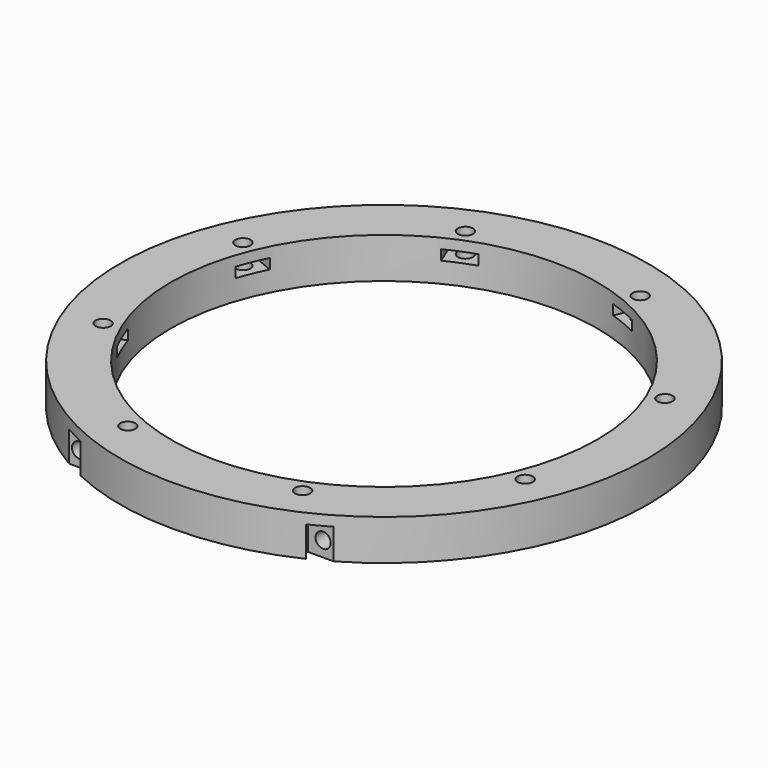
from build123d import *

# Parameters (mm, degrees)
CYLINDER904_R               = 1.5
CYLINDER904_DEPTH           = 20
CYLINDER904_PLACEMENT_ANGLE = 45
CYLINDER907_R               = 1.5
CYLINDER907_DEPTH           = 20
CYLINDER902_R               = 1.5
CYLINDER902_DEPTH           = 20
CYLINDER902_PLACEMENT_ANGLE = 135
CYLINDER901_R               = 1.5
CYLINDER901_DEPTH           = 20
CYLINDER903_R               = 1.5
CYLINDER903_DEPTH           = 20
CYLINDER903_PLACEMENT_ANGLE = 225
CYLINDER905_R               = 1.5
CYLINDER905_DEPTH           = 20
CYLINDER906_R               = 1.5
CYLINDER906_DEPTH           = 20
CYLINDER906_PLACEMENT_ANGLE = 45
CYLINDER898_R               = 1.5
CYLINDER898_DEPTH           = 20
COMPOUND256_PLACEMENT_ANGLE = 22.5
BOX408_W                    = 6
BOX408_H                    = 8
BOX408_DEPTH                = 2
BOX408_PLACEMENT_ANGLE      = 45
BOX404_W                    = 6
BOX404_H                    = 8
BOX404_DEPTH                = 2
BOX415_W                    = 6
BOX415_H                    = 8
BOX415_DEPTH                = 2
BOX415_PLACEMENT_ANGLE      = 135
BOX407_W                    = 6
BOX407_H                    = 8
BOX407_DEPTH                = 2
BOX412_W                    = 6
BOX412_H                    = 8
BOX412_DEPTH                = 2
BOX412_PLACEMENT_ANGLE      = 225
BOX128_W                    = 6
BOX128_H                    = 8
BOX128_DEPTH                = 2
BOX414_W                    = 6
BOX414_H                    = 8
BOX414_DEPTH                = 2
BOX414_PLACEMENT_ANGLE      = 45
BOX413_W                    = 6
BOX413_H                    = 8
BOX413_DEPTH                = 2
COMPOUND780_PLACEMENT_ANGLE = 22.5
CYLINDER888_R               = 1.5
CYLINDER888_DEPTH           = 20
CYLINDER897_R               = 1.5
CYLINDER897_DEPTH           = 20
CYLINDER896_R               = 1.5
CYLINDER896_DEPTH           = 20
CYLINDER900_R               = 1.5
CYLINDER900_DEPTH           = 20
BOX409_W                    = 6
BOX409_H                    = 2
BOX409_DEPTH                = 6
BOX406_W                    = 6
BOX406_H                    = 2
BOX406_DEPTH                = 6
BOX411_W                    = 6
BOX411_H                    = 2
BOX411_DEPTH                = 6
BOX410_W                    = 6
BOX410_H                    = 2
BOX410_DEPTH                = 6
TUBE087_R                   = 52
TUBE087_R_2                 = 42
TUBE087_DEPTH               = 8


with BuildPart() as obj1:
    # Cylinder904 → Cylinder904 (new body)
    with BuildSketch(Plane.XY):
        Circle(CYLINDER904_R)
    extrude(amount=CYLINDER904_DEPTH)


with BuildPart() as obj1_1:
    # Cylinder904 placement: moved
    add(obj1.part.moved(Location((-31.819805, 31.819805, -18))).rotate(Axis((-31.819805, 31.819805, -18), (0, 0, 1)), CYLINDER904_PLACEMENT_ANGLE))


with BuildPart() as obj2:
    # Cylinder907 → Cylinder907 (new body)
    with BuildSketch(Plane(origin=(-45, 0, -18), x_dir=(0, 1, 0), z_dir=(0, 0, 1))):
        Circle(CYLINDER907_R)
    extrude(amount=CYLINDER907_DEPTH)


with BuildPart() as obj3:
    # Cylinder902 → Cylinder902 (new body)
    with BuildSketch(Plane.XY):
        Circle(CYLINDER902_R)
    extrude(amount=CYLINDER902_DEPTH)


with BuildPart() as obj3_1:
    # Cylinder902 placement: moved
    add(obj3.part.moved(Location((-31.819805, -31.819805, -18))).rotate(Axis((-31.819805, -31.819805, -18), (0, 0, 1)), CYLINDER902_PLACEMENT_ANGLE))


with BuildPart() as obj4:
    # Cylinder901 → Cylinder901 (new body)
    with BuildSketch(Plane(origin=(0, -45, -18), x_dir=(-1, 0, 0), z_dir=(0, 0, 1))):
        Circle(CYLINDER901_R)
    extrude(amount=CYLINDER901_DEPTH)


with BuildPart() as obj5:
    # Cylinder903 → Cylinder903 (new body)
    with BuildSketch(Plane.XY):
        Circle(CYLINDER903_R)
    extrude(amount=CYLINDER903_DEPTH)


with BuildPart() as obj5_1:
    # Cylinder903 placement: moved
    add(obj5.part.moved(Location((31.819805, -31.819805, -18))).rotate(Axis((31.819805, -31.819805, -18), (0, 0, 1)), CYLINDER903_PLACEMENT_ANGLE))


with BuildPart() as obj6:
    # Cylinder905 → Cylinder905 (new body)
    with BuildSketch(Plane(origin=(45, 0, -18), x_dir=(0, -1, 0), z_dir=(0, 0, 1))):
        Circle(CYLINDER905_R)
    extrude(amount=CYLINDER905_DEPTH)


with BuildPart() as obj7:
    # Cylinder906 → Cylinder906 (new body)
    with BuildSketch(Plane.XY):
        Circle(CYLINDER906_R)
    extrude(amount=CYLINDER906_DEPTH)


with BuildPart() as obj7_1:
    # Cylinder906 placement: moved
    add(obj7.part.moved(Location((31.819805, 31.819805, -18))).rotate(Axis((31.819805, 31.819805, -18), (0, 0, -1)), CYLINDER906_PLACEMENT_ANGLE))


with BuildPart() as compound256:
    # Cylinder898 → Cylinder898 (new body)
    with BuildSketch(Plane(origin=(0, 45, -18), x_dir=(1, 0, 0), z_dir=(0, 0, 1))):
        Circle(CYLINDER898_R)
    extrude(amount=CYLINDER898_DEPTH)

    # Compound256: union obj1, obj2, obj3, obj4, obj5, obj6, obj7
    add(obj1_1.part)
    add(obj2.part)
    add(obj3_1.part)
    add(obj4.part)
    add(obj5_1.part)
    add(obj6.part)
    add(obj7_1.part)


with BuildPart() as compound256_1:
    # Compound256 placement: moved
    add(compound256.part.rotate(Axis((0, 0, 0), (0, 0, 1)), COMPOUND256_PLACEMENT_ANGLE))


with BuildPart() as krychle408:
    # Box408 → Box408 (new body)
    with BuildSketch(Plane.XY):
        with Locations((3, 4)):
            Rectangle(BOX408_W, BOX408_H)
    extrude(amount=BOX408_DEPTH)


with BuildPart() as krychle408_1:
    # Box408 placement: moved
    add(krychle408.part.moved(Location((-31.112698, 26.870058, -4))).rotate(Axis((-31.112698, 26.870058, -4), (0, 0, 1)), BOX408_PLACEMENT_ANGLE))


with BuildPart() as krychle404:
    # Box404 → Box404 (new body)
    with BuildSketch(Plane(origin=(-41, -3, -4), x_dir=(0, 1, 0), z_dir=(0, 0, 1))):
        with Locations((3, 4)):
            Rectangle(BOX404_W, BOX404_H)
    extrude(amount=BOX404_DEPTH)


with BuildPart() as krychle415:
    # Box415 → Box415 (new body)
    with BuildSketch(Plane.XY):
        with Locations((3, 4)):
            Rectangle(BOX415_W, BOX415_H)
    extrude(amount=BOX415_DEPTH)


with BuildPart() as krychle415_1:
    # Box415 placement: moved
    add(krychle415.part.moved(Location((-26.870058, -31.112698, -4))).rotate(Axis((-26.870058, -31.112698, -4), (0, 0, 1)), BOX415_PLACEMENT_ANGLE))


with BuildPart() as krychle407:
    # Box407 → Box407 (new body)
    with BuildSketch(Plane(origin=(3, -41, -4), x_dir=(-1, 0, 0), z_dir=(0, 0, 1))):
        with Locations((3, 4)):
            Rectangle(BOX407_W, BOX407_H)
    extrude(amount=BOX407_DEPTH)


with BuildPart() as krychle412:
    # Box412 → Box412 (new body)
    with BuildSketch(Plane.XY):
        with Locations((3, 4)):
            Rectangle(BOX412_W, BOX412_H)
    extrude(amount=BOX412_DEPTH)


with BuildPart() as krychle412_1:
    # Box412 placement: moved
    add(krychle412.part.moved(Location((31.112698, -26.870058, -4))).rotate(Axis((31.112698, -26.870058, -4), (0, 0, 1)), BOX412_PLACEMENT_ANGLE))


with BuildPart() as krychle128:
    # Box128 → Box128 (new body)
    with BuildSketch(Plane(origin=(41, 3, -4), x_dir=(0, -1, 0), z_dir=(0, 0, 1))):
        with Locations((3, 4)):
            Rectangle(BOX128_W, BOX128_H)
    extrude(amount=BOX128_DEPTH)


with BuildPart() as krychle414:
    # Box414 → Box414 (new body)
    with BuildSketch(Plane.XY):
        with Locations((3, 4)):
            Rectangle(BOX414_W, BOX414_H)
    extrude(amount=BOX414_DEPTH)


with BuildPart() as krychle414_1:
    # Box414 placement: moved
    add(krychle414.part.moved(Location((26.870058, 31.112698, -4))).rotate(Axis((26.870058, 31.112698, -4), (0, 0, -1)), BOX414_PLACEMENT_ANGLE))


with BuildPart() as compound780:
    # Box413 → Box413 (new body)
    with BuildSketch(Plane(origin=(-3, 41, -4), x_dir=(1, 0, 0), z_dir=(0, 0, 1))):
        with Locations((3, 4)):
            Rectangle(BOX413_W, BOX413_H)
    extrude(amount=BOX413_DEPTH)

    # Compound780: union Krychle408, Krychle404, Krychle415, Krychle407, Krychle412, Krychle128, Krychle414
    add(krychle408_1.part)
    add(krychle404.part)
    add(krychle415_1.part)
    add(krychle407.part)
    add(krychle412_1.part)
    add(krychle128.part)
    add(krychle414_1.part)


with BuildPart() as compound780_1:
    # Compound780 placement: moved
    add(compound780.part.rotate(Axis((0, 0, 0), (0, 0, 1)), COMPOUND780_PLACEMENT_ANGLE))


with BuildPart() as obj8:
    # Cylinder888 → Cylinder888 (new body)
    with BuildSketch(Plane(origin=(24, -40, -5), x_dir=(1, 0, 0), z_dir=(0, -1, 0))):
        Circle(CYLINDER888_R)
    extrude(amount=CYLINDER888_DEPTH)


with BuildPart() as obj9:
    # Cylinder897 → Cylinder897 (new body)
    with BuildSketch(Plane(origin=(51, -40, 7), x_dir=(1, 0, 0), z_dir=(0, -1, 0))):
        Circle(CYLINDER897_R)
    extrude(amount=CYLINDER897_DEPTH)


with BuildPart() as obj10:
    # Cylinder896 → Cylinder896 (new body)
    with BuildSketch(Plane(origin=(-51, -40, 7), x_dir=(1, 0, 0), z_dir=(0, -1, 0))):
        Circle(CYLINDER896_R)
    extrude(amount=CYLINDER896_DEPTH)


with BuildPart() as compound255:
    # Cylinder900 → Cylinder900 (new body)
    with BuildSketch(Plane(origin=(-24, -40, -5), x_dir=(1, 0, 0), z_dir=(0, -1, 0))):
        Circle(CYLINDER900_R)
    extrude(amount=CYLINDER900_DEPTH)

    # Compound255: union obj8, obj9, obj10
    add(obj8.part)
    add(obj9.part)
    add(obj10.part)


with BuildPart() as krychle409:
    # Box409 → Box409 (new body)
    with BuildSketch(Plane(origin=(21, -47, -8), x_dir=(1, 0, 0), z_dir=(0, 0, 1))):
        with Locations((3, 1)):
            Rectangle(BOX409_W, BOX409_H)
    extrude(amount=BOX409_DEPTH)


with BuildPart() as krychle406:
    # Box406 → Box406 (new body)
    with BuildSketch(Plane(origin=(48, -45, 4), x_dir=(1, 0, 0), z_dir=(0, 0, 1))):
        with Locations((3, 1)):
            Rectangle(BOX406_W, BOX406_H)
    extrude(amount=BOX406_DEPTH)


with BuildPart() as krychle411:
    # Box411 → Box411 (new body)
    with BuildSketch(Plane(origin=(-54, -45, 4), x_dir=(1, 0, 0), z_dir=(0, 0, 1))):
        with Locations((3, 1)):
            Rectangle(BOX411_W, BOX411_H)
    extrude(amount=BOX411_DEPTH)


with BuildPart() as compound257:
    # Box410 → Box410 (new body)
    with BuildSketch(Plane(origin=(-27, -47, -8), x_dir=(1, 0, 0), z_dir=(0, 0, 1))):
        with Locations((3, 1)):
            Rectangle(BOX410_W, BOX410_H)
    extrude(amount=BOX410_DEPTH)

    # Compound257: union Krychle409, Krychle406, Krychle411
    add(krychle409.part)
    add(krychle406.part)
    add(krychle411.part)


with BuildPart() as cut145:
    # Tube087 → Tube087 (new body)
    with BuildSketch(Plane.XY.offset(-8)):
        Circle(TUBE087_R)
        Circle(TUBE087_R_2, mode=Mode.SUBTRACT)
    extrude(amount=TUBE087_DEPTH)

    # Cut407: cut Compound257
    add(compound257.part, mode=Mode.SUBTRACT)

    # Cut144: cut Compound255
    add(compound255.part, mode=Mode.SUBTRACT)

    # Cut404: cut Compound780
    add(compound780_1.part, mode=Mode.SUBTRACT)

    # Cut145: cut Compound256
    add(compound256_1.part, mode=Mode.SUBTRACT)


solid = cut145.part
